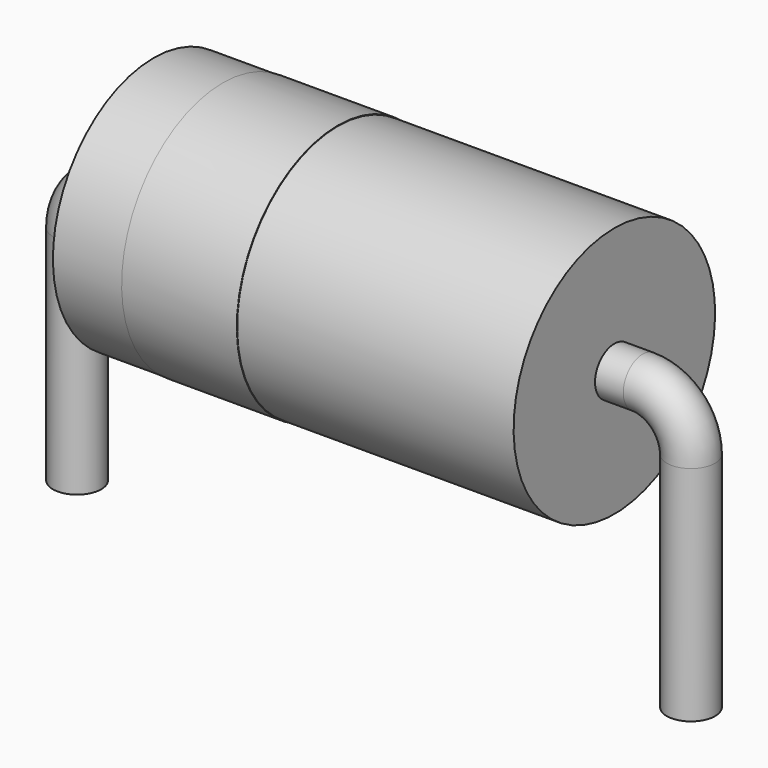
from build123d import *

# Parameters (mm, degrees)
SKETCH002_W = 9.53
SKETCH002_H = 2.605
SKETCH003_W = 2.3825
SKETCH003_H = 0.02
SKETCH_R    = 0.5


with BuildPart() as revolution:
    # Sketch002 → Revolution (revolve)
    with BuildSketch(Plane.XZ):
        with Locations((6.35, 4.4075)):
            Rectangle(SKETCH002_W, SKETCH002_H)
    revolve(axis=Axis((1.585, 0, 3.105), (1, 0, 0)))


with BuildPart() as revolution001:
    # Sketch003 → Revolution001 (revolve)
    with BuildSketch(Plane.XZ):
        with Locations((4.20575, 5.71)):
            Rectangle(SKETCH003_W, SKETCH003_H)
    revolve(axis=Axis((0, 0, 3.105), (1, 0, 0)))


with BuildPart() as sweep_body:
    # Sweep: sweep along a path in Sketch001
    with BuildLine(Plane.XZ) as sweep_path:
        Line((0, -2.5), (0, 2.105))
        ThreePointArc((0, 2.105), (0.292893, 2.812107), (1, 3.105))
        Line((1, 3.105), (11.7, 3.105))
        ThreePointArc((11.7, 3.105), (12.407107, 2.812107), (12.7, 2.105))
        Line((12.7, 2.105), (12.7, -2.5))
    # Sketch → Sweep (sweep)
    with BuildSketch(Plane.XY.offset(-2)):
        Circle(SKETCH_R)
    sweep(path=sweep_path.line)


solid = Compound([revolution.part, revolution001.part, sweep_body.part])
